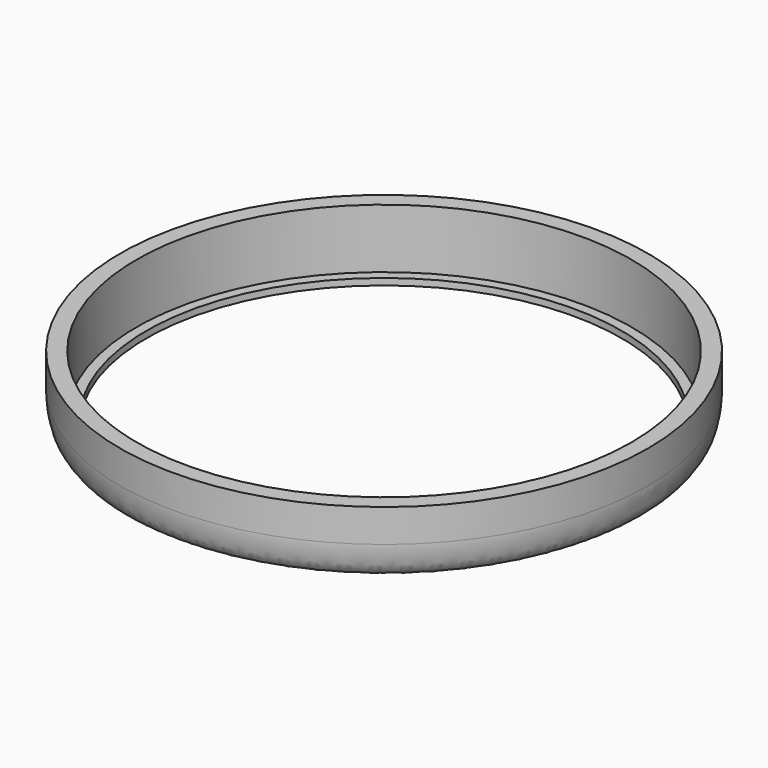
from build123d import *

# Parameters (mm, degrees)
F2_R     = 37.5
F3_DEPTH = 9


with BuildPart() as f1:
    # F0 (on Front) → F1 (revolve)
    with BuildSketch(Plane.XZ):
        with BuildLine():
            Line((36, 10), (36, 0))
            Line((36, 0), (37, 0))
            add(Edge.make_bspline(
                [(37, 0), (38.1127602334, 0), (39.9287998169, 1.0931583336), (40, 4.6612314733), (40, 5)],
                knots=[0, 0, 0, 0, 0.4815000837, 1, 1, 1, 1], degree=3))
            Line((40, 5), (40, 10))
            Line((40, 10), (36, 10))
        make_face()
    revolve(axis=Axis((0, 0, 14.1012716265), (0, 0, 1)))

    # F2 (on face) → F3 (cut)
    with BuildSketch(Plane.XY.offset(10)):
        Circle(F2_R)
    extrude(amount=-F3_DEPTH, mode=Mode.SUBTRACT)


solid = f1.part
